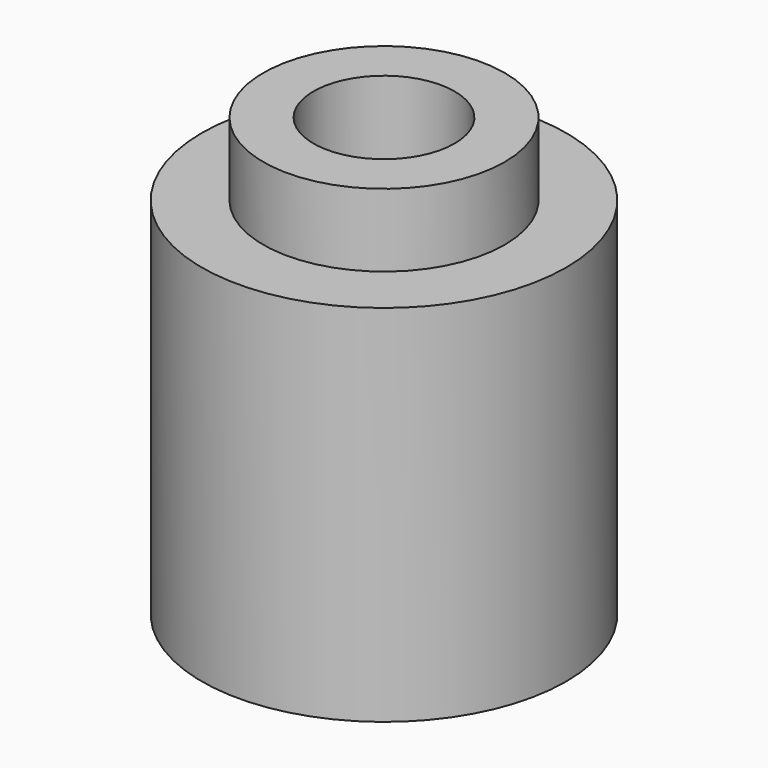
from build123d import *

# Parameters (mm, degrees)
SKETCH_R      = 4
SKETCH_R_2    = 1.55
PAD_DEPTH     = 8
SKETCH001_R   = 2.65
SKETCH001_R_2 = 1.55
PAD001_DEPTH  = 1.6


with BuildPart() as part:
    # Sketch → Pad (new body)
    with BuildSketch(Plane.XY):
        Circle(SKETCH_R)
        Circle(SKETCH_R_2, mode=Mode.SUBTRACT)
    extrude(amount=PAD_DEPTH)

    # Sketch001 (on Face4 of Pad) → Pad001 (join)
    with BuildSketch(Plane.XY.offset(8)):
        Circle(SKETCH001_R)
        Circle(SKETCH001_R_2, mode=Mode.SUBTRACT)
    extrude(amount=PAD001_DEPTH)


solid = part.part
